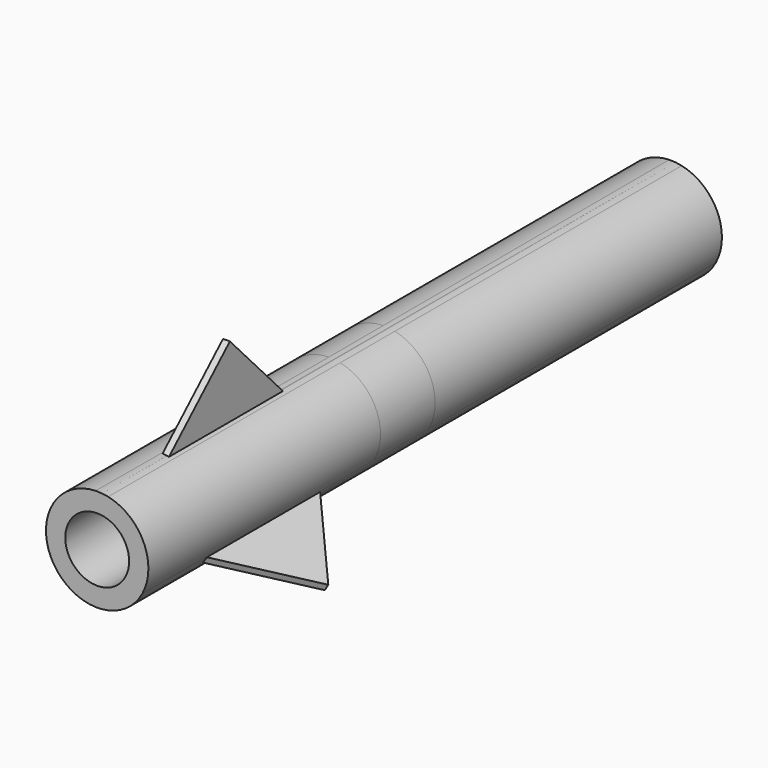
from build123d import *

# Parameters (mm, degrees)
F0_R     = 19.05
F0_R_2   = 11.880851
F1_DEPTH = 133.35
F3_DEPTH = 2.54
F4_ANGLE = 240
F5_ANGLE = 120
F6_DEPTH = 25.4


with BuildPart() as f1:
    # F0 (on Front) → F1 (new body, symmetric)
    with BuildSketch(Plane.XZ):
        Circle(F0_R)
        Circle(F0_R_2, mode=Mode.SUBTRACT)
    extrude(amount=F1_DEPTH, both=True)

    # F2 (on Right) → F3 (join)
    with BuildSketch(Plane.YZ):
        Polygon((-74.828879, 45.211293), (-107.937781, 14.422893), (-76.074559, 13.485739), align=None)
        Polygon((-44.211338, 12.548585), (-74.828879, 45.211293), (-76.074559, 13.485739), align=None)
    extrude(amount=F3_DEPTH)


with BuildPart() as f4_1:
    # F4: copy of F1
    add(f1.part.rotate(Axis((0, -133.35, 0), (0, -1, 0)), F4_ANGLE))


with BuildPart() as f5_1:
    # F5: copy of F1
    add(f1.part.rotate(Axis((0, -133.35, 0), (0, -1, 0)), F5_ANGLE))


with BuildPart() as f6:
    # F0 (on Front) → F6 (new body)
    with BuildSketch(Plane.XZ):
        Circle(F0_R)
        Circle(F0_R_2, mode=Mode.SUBTRACT)
    extrude(amount=F6_DEPTH)


solid = Compound([f1.part, f4_1.part, f5_1.part, f6.part])
